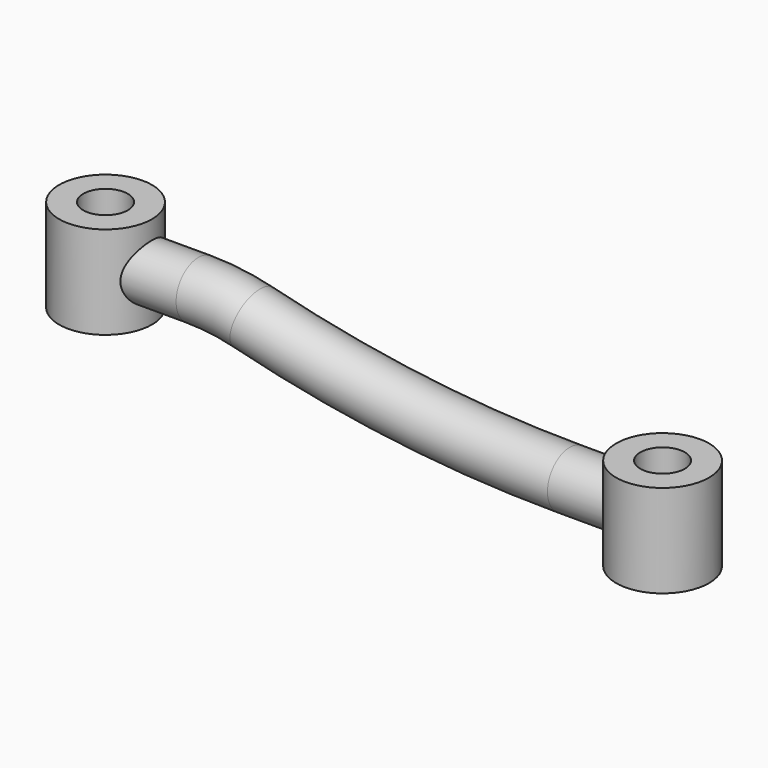
from build123d import *

# Parameters (mm, degrees)
F0_R     = 12.5
F1_DEPTH = 25
F2_DEPTH = 12.5
F4_R     = 7.5
F6_R     = 6
F7_DEPTH = 37.5010001


with BuildPart() as f1:
    # F0 (on Top) → F1 (new body)
    with BuildSketch(Plane.XY):
        Circle(F0_R)
    extrude(amount=F1_DEPTH)



with BuildPart() as f2:
    # F0 (on Top) → F2 (new body, symmetric)
    with BuildSketch(Plane.XY):
        with Locations((150, 0)):
            Circle(F0_R)
    extrude(amount=F2_DEPTH, both=True)


with BuildPart() as f1_1:
    add(f1.part)

    add(f2.part)  # F5 merges F2
    # F5: sweep along a path in F3
    with BuildLine(Plane.XZ) as f5_path:
        Line((0, 12.5), (25, 12.5))
        ThreePointArc((25, 12.5), (32.4420840754, 12.0366726028), (39.7692307692, 10.6538461538))
        ThreePointArc((39.7692307692, 10.6538461538), (82.0529731485, 2.6737851879), (125, 0))
        Line((125, 0), (150, 0))
    # F4 (on Right) → F5 (sweep)
    with BuildSketch(Plane.YZ):
        with Locations((0, 12.5)):
            Circle(F4_R)
    sweep(path=f5_path.line)

    # F6 (on face) → F7 (cut, through all)
    with BuildSketch(Plane.XY.offset(25)):
        Circle(F6_R)
        with Locations((150, 0)):
            Circle(F6_R)
    extrude(amount=-F7_DEPTH, mode=Mode.SUBTRACT)


solid = f1_1.part
